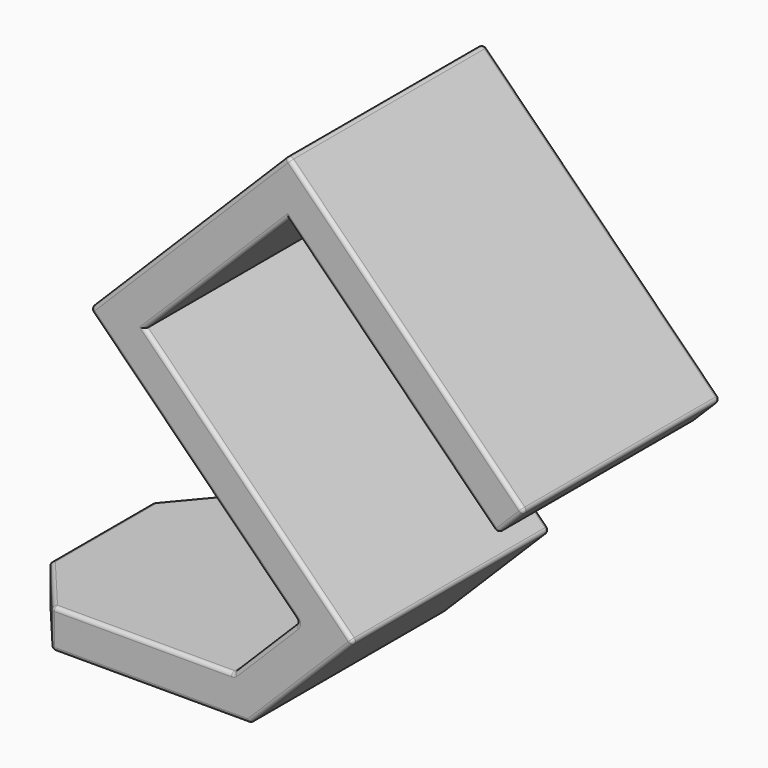
from build123d import *

# Parameters (mm, degrees)
PAD_DEPTH    = 4
PAD001_DEPTH = 25
FILLET_R     = 0.4


with BuildPart() as part:
    # Sketch → Pad (new body)
    with BuildSketch(Plane.XY):
        Polygon((5, 0), (0, 5.958768), (0, 19.041232), (5, 25), (25, 25), (25, 0), align=None)
    extrude(amount=PAD_DEPTH)

    # Sketch001 → Pad001 (join)
    with BuildSketch(Plane.XZ):
        Polygon((29.949747, 10.606602), (19.343146, 0), (25, 0), (35.606602, 10.606602), (14.393398, 31.819805), (28.889087, 46.315494), (50.102291, 25.102291), (52.930718, 27.930718), (28.889087, 51.972348), (8.736544, 31.819805), align=None)
    extrude(amount=-PAD001_DEPTH)

    # Fillet
    fillet_edges = [part.edges().sort_by_distance(p)[0] for p in [
        (25, 0, 21.213203),
        (21.641243, 0, 39.06765),
        (18.812816, 0, 41.896077),
        (19.343146, 0, 21.213203),
        (26.646447, 0, 7.303301),
        (30.303301, 0, 5.303301),
        (12.171573, 0, 0),
        (22.171573, 0, 0),
        (14.171573, 0, 4),
        (2.5, 2.979384, 4),
        (2.5, 2.979384, 0),
        (5, 0, 2),
        (0, 5.958768, 2),
        (39.495689, 0, 35.708892),
        (40.909903, 0, 39.951533),
        (50.102291, 12.5, 25.102291),
        (51.516504, 0, 26.516504),
        (8.736544, 12.5, 31.819805),
        (0, 12.5, 4),
        (0, 12.5, 0),
        (0, 19.041232, 2),
        (2.5, 22.020616, 4),
        (2.5, 22.020616, 0),
        (5, 25, 2),
        (18.812816, 25, 41.896077),
        (28.889087, 12.5, 51.972348),
        (19.343146, 25, 21.213203),
        (29.949747, 12.5, 10.606602),
        (23.343146, 12.5, 4),
        (14.171573, 25, 4),
        (12.171573, 25, 0),
        (22.171573, 25, 0),
        (30.303301, 25, 5.303301),
        (25, 25, 21.213203),
        (21.641243, 25, 39.06765),
        (39.495689, 25, 35.708892),
        (40.909903, 25, 39.951533),
        (51.516504, 25, 26.516504),
        (52.930718, 12.5, 27.930718),
        (35.606602, 12.5, 10.606602),
        (26.646447, 25, 7.303301),
        (25, 12.5, 0),
    ]]
    fillet(fillet_edges, radius=FILLET_R)


solid = part.part
